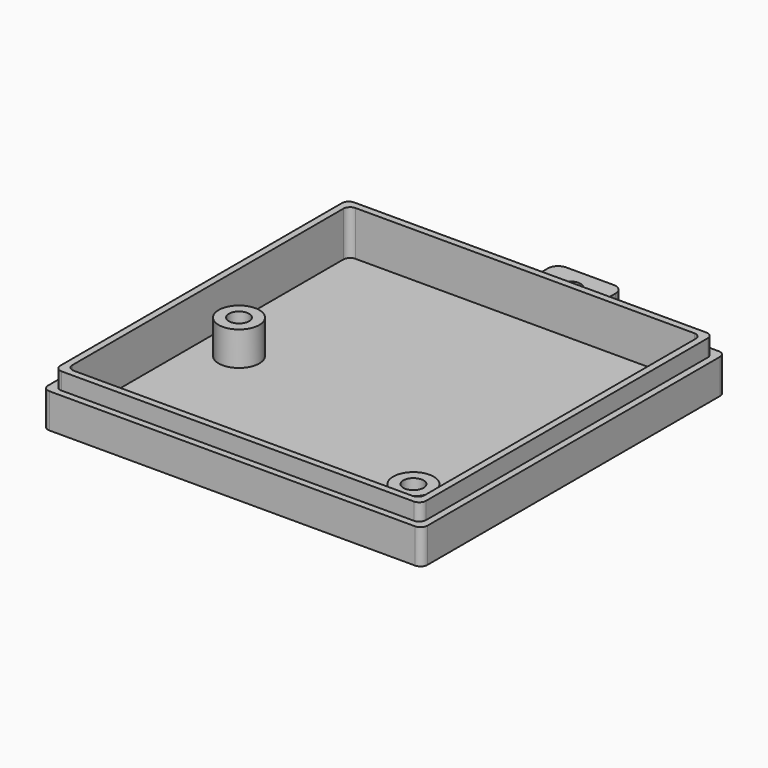
from build123d import *

# Parameters (mm, degrees)
PAD_DEPTH       = 7.6
POCKET_DEPTH    = 6.6
SKETCH002_R     = 3
SKETCH002_R_2   = 1.5
PAD001_DEPTH    = 5
POCKET001_DEPTH = 2.5
SKETCH004_W     = 10
SKETCH004_H     = 2
PAD002_DEPTH    = 10
SKETCH005_R     = 1.5
POCKET002_DEPTH = 5


with BuildPart() as part:
    # Sketch → Pad (new body)
    with BuildSketch(Plane.XY):
        with BuildLine():
            Line((-27, 28), (27, 28))
            ThreePointArc((28, 27), (27.707107, 27.707107), (27, 28))
            Line((28, 27), (28, -27))
            ThreePointArc((27, -28), (27.707107, -27.707107), (28, -27))
            Line((27, -28), (-27, -28))
            ThreePointArc((-28, -27), (-27.707107, -27.707107), (-27, -28))
            Line((-28, -27), (-28, 27))
            ThreePointArc((-27, 28), (-27.707107, 27.707107), (-28, 27))
        make_face()
    extrude(amount=PAD_DEPTH)

    # Sketch001 (on Face10 of Pad) → Pocket (cut)
    with BuildSketch(Plane.XY.offset(7.6)):
        with BuildLine():
            Line((-25, 26), (25, 26))
            ThreePointArc((26, 25), (25.707107, 25.707107), (25, 26))
            Line((26, 25), (26, -25))
            ThreePointArc((25, -26), (25.707107, -25.707107), (26, -25))
            Line((25, -26), (-25, -26))
            ThreePointArc((-26, -25), (-25.707107, -25.707107), (-25, -26))
            Line((-26, -25), (-26, 25))
            ThreePointArc((-25, 26), (-25.707107, 25.707107), (-26, 25))
        make_face()
    extrude(amount=-POCKET_DEPTH, mode=Mode.SUBTRACT)

    # Sketch002 (on Face19 of Pocket) → Pad001 (join)
    with BuildSketch(Plane.XY.offset(1)):
        with Locations((-20.3447, -1.323)):
            Circle(SKETCH002_R)
        with Locations((-20.3447, -1.323)):
            Circle(SKETCH002_R_2, mode=Mode.SUBTRACT)
        with Locations((21.34, -21.243)):
            Circle(SKETCH002_R)
        with Locations((21.34, -21.243)):
            Circle(SKETCH002_R_2, mode=Mode.SUBTRACT)
    extrude(amount=PAD001_DEPTH)

    # Sketch003 (on Face5 of Pad001) → Pocket001 (cut)
    with BuildSketch(Plane.XY.offset(7.6)):
        Polygon((27.14591, 28.064611), (28.06645, 28.064611), (28.06645, -28.099016), (27.14591, -28.099016), (-28.144796, -28.099016), (-28.144796, -26.750607), (-28.144796, 28.064611), (-26.614367, 28.064611), align=None)
        with BuildLine():
            Line((27, -26), (27, 26))
            ThreePointArc((27, 26), (26.707107, 26.707107), (26, 27))
            Line((-26, 27), (26, 27))
            ThreePointArc((-26, 27), (-26.707107, 26.707107), (-27, 26))
            Line((-27, -26), (-27, 26))
            ThreePointArc((-27, -26), (-26.707107, -26.707107), (-26, -27))
            Line((-26, -27), (26, -27))
            ThreePointArc((26, -27), (26.707107, -26.707107), (27, -26))
        make_face(mode=Mode.SUBTRACT)
    extrude(amount=-POCKET001_DEPTH, mode=Mode.SUBTRACT)

    # Sketch004 (on Face6 of Pocket001) → Pad002 (join)
    with BuildSketch(Plane(origin=(0, 28, 0), x_dir=(-1, 0, 0), z_dir=(0, 1, 0))):
        with Locations((0, 1)):
            Rectangle(SKETCH004_W, SKETCH004_H)
    extrude(amount=PAD002_DEPTH)

    # Sketch005 (on Face21 of Pad002) → Pocket002 (cut)
    with BuildSketch(Plane.XY.offset(2)):
        with Locations((0, 34.384102)):
            Circle(SKETCH005_R)
        with BuildLine():
            Line((-3.5, 38), (3.5, 38))
            ThreePointArc((5, 36.5), (4.56066, 37.56066), (3.5, 38))
            Line((5, 36.5), (5, 28))
            Line((5.691499, 28), (5, 28))
            Line((5.691499, 38.719643), (5.691499, 28))
            Line((-5.537798, 38.719643), (5.691499, 38.719643))
            Line((-5.537798, 28), (-5.537798, 38.719643))
            Line((-5, 28), (-5.537798, 28))
            Line((-5, 36.5), (-5, 28))
            ThreePointArc((-3.5, 38), (-4.56066, 37.56066), (-5, 36.5))
        make_face()
    extrude(amount=-POCKET002_DEPTH, mode=Mode.SUBTRACT)


solid = part.part
